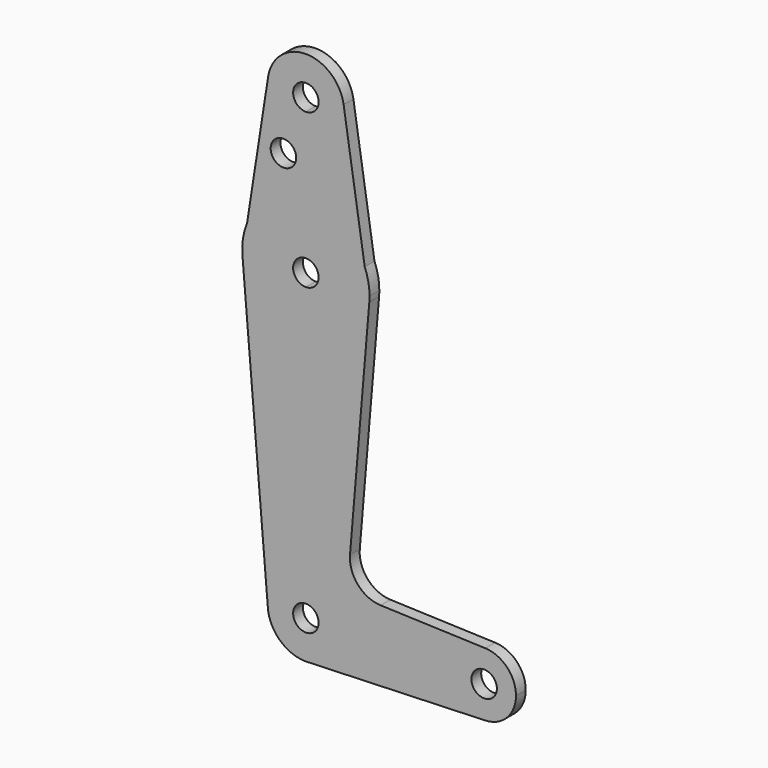
from build123d import *

# Parameters (mm, degrees)
F0_R     = 3.175
F1_DEPTH = 3.048
F2_DEPTH = 3.048


with BuildPart() as f1:
    # F0 (on Front) → F1 (new body)
    with BuildSketch(Plane.XZ):
        with BuildLine():
            ThreePointArc((-9.4122732274, 80.6980861432), (-7.233337969, 73.0398798407), (0, 69.712011986))
            ThreePointArc((0, 69.712011986), (6.7351920908, 72.5018198952), (9.525, 79.237011986))
            ThreePointArc((9.525, 79.237011986), (9.4967855323, 79.9696029722), (9.4123092802, 80.6978538714))
            ThreePointArc((9.4123092802, 80.6978538714), (0.0001175266, 88.7620119852), (-9.4122732274, 80.6980861432))
        make_face()
        with BuildLine():
            ThreePointArc((3.175, 79.237011986), (2.2450640303, 76.9919479557), (0, 76.062011986))
            ThreePointArc((0, 76.062011986), (-2.2450640303, 81.4820760162), (3.175, 79.237011986))
        make_face(mode=Mode.SUBTRACT)
        with BuildLine():
            ThreePointArc((9.525, 79.237011986), (6.7351920908, 72.5018198952), (0, 69.712011986))
            Line((0, 69.712011986), (0, 56.6330696046))
            ThreePointArc((0, 56.6330696046), (8.8226439202, 53.9556670852), (14.6693169351, 46.8265756529))
            Line((14.6693169351, 46.8265756529), (9.4123092802, 80.6978538714))
            ThreePointArc((9.4123092802, 80.6978538714), (9.4967855323, 79.9696029722), (9.525, 79.237011986))
        make_face()
        with BuildLine():
            Line((0, 56.6330696046), (0, 69.712011986))
            ThreePointArc((0, 69.712011986), (-7.233337969, 73.0398798407), (-9.4122732274, 80.6980861432))
            Line((-9.4122732274, 80.6980861432), (-14.6706873169, 46.8232619882))
            ThreePointArc((-14.6706873169, 46.8232619882), (-8.8241344026, 53.9546705702), (0, 56.6330696046))
        make_face()
        with Locations((-5.602484569, 65.1724487543)):
            Circle(F0_R, mode=Mode.SUBTRACT)
        with BuildLine():
            ThreePointArc((14.6693169351, 46.8265756529), (8.8226439202, 53.9556670852), (0, 56.6330696046))
            Line((0, 56.6330696046), (0, 43.9330696046))
            ThreePointArc((0, 43.9330696046), (2.2450640303, 43.0031336349), (3.175, 40.7580696046))
            ThreePointArc((3.175, 40.7580696046), (2.2450640303, 38.5130055744), (0, 37.5830696046))
            Line((0, 37.5830696046), (0, 24.8830696046))
            ThreePointArc((0, 24.8830696046), (10.7423681294, 29.0697355928), (15.8186314047, 39.4214599074))
            Line((15.8186314047, 39.4214599074), (14.6693169351, 46.8265756529))
        make_face()
        with BuildLine():
            Line((0, 43.9330696046), (0, 56.6330696046))
            ThreePointArc((0, 56.6330696046), (-8.8241344026, 53.9546705702), (-14.6706873169, 46.8232619882))
            Line((-14.6706873169, 46.8232619882), (-15.8189986877, 39.4258138036))
            ThreePointArc((-15.8189986877, 39.4258138036), (-10.7439765487, 29.0712140429), (0, 24.8830696046))
            Line((0, 24.8830696046), (0, 37.5830696046))
            ThreePointArc((0, 37.5830696046), (-3.175, 40.7580696046), (0, 43.9330696046))
        make_face()
        with BuildLine():
            ThreePointArc((15.875, 40.7580696046), (15.5706620178, 43.8516289345), (14.6693169351, 46.8265756529))
            Line((14.6693169351, 46.8265756529), (15.8186314047, 39.4214599074))
            ThreePointArc((15.8186314047, 39.4214599074), (15.8609015909, 40.0891707144), (15.875, 40.7580696046))
        make_face()
        with BuildLine():
            Line((-15.8189986877, 39.4258138036), (-14.6706873169, 46.8232619882))
            ThreePointArc((-14.6706873169, 46.8232619882), (-15.6871220457, 43.1931932), (-15.8189986877, 39.4258138036))
        make_face()
        with BuildLine():
            Line((11.0016428141, -17.5870797962), (15.8186314047, 39.4214599074))
            ThreePointArc((15.8186314047, 39.4214599074), (10.7423681294, 29.0697355928), (0, 24.8830696046))
            Line((0, 24.8830696046), (0, -25.537988014))
            ThreePointArc((0, -25.537988014), (6.7351920908, -28.3277959232), (9.525, -35.062988014))
            Line((9.525, -35.062988014), (36.5125, -35.062988014))
            ThreePointArc((36.5125, -35.062988014), (38.9380895153, -29.3513552301), (44.7324052746, -27.1305133995))
            Line((44.7324052746, -27.1305133995), (18.6407562986, -26.2016205066))
            ThreePointArc((18.6407562986, -26.2016205066), (12.9753046338, -23.5312337959), (11.0016428141, -17.5870797962))
        make_face()
        with BuildLine():
            ThreePointArc((0, 24.8830696046), (-10.7439765487, 29.0712140429), (-15.8189986877, 39.4258138036))
            Line((-15.8189986877, 39.4258138036), (-9.5202099751, -35.3650261402))
            ThreePointArc((-9.5202099751, -35.3650261402), (-6.8411453044, -28.4354427729), (0, -25.537988014))
            Line((0, -25.537988014), (0, 24.8830696046))
        make_face()
        with BuildLine():
            ThreePointArc((0, -25.537988014), (-6.8411453044, -28.4354427729), (-9.5202099751, -35.3650261402))
            ThreePointArc((-9.5202099751, -35.3650261402), (-6.6275452412, -41.9041333184), (0, -44.587988014))
            Line((0, -44.587988014), (0.6773435479, -44.5638738))
            ThreePointArc((0.6773435479, -44.5638738), (6.9705567315, -41.5542871023), (9.525, -35.062988014))
            Line((9.525, -35.062988014), (3.175, -35.062988014))
            ThreePointArc((3.175, -35.062988014), (-2.2450640303, -37.3080520443), (0, -31.887988014))
            Line((0, -31.887988014), (0, -25.537988014))
        make_face()
        with BuildLine():
            Line((0.6773435479, -44.5638738), (0, -44.587988014))
            ThreePointArc((0, -44.587988014), (0.3388863295, -44.5819575515), (0.6773435479, -44.5638738))
        make_face()
        with BuildLine():
            Line((36.5125, -35.062988014), (9.525, -35.062988014))
            ThreePointArc((9.525, -35.062988014), (6.9705567315, -41.5542871023), (0.6773435479, -44.5638738))
            Line((0.6773435479, -44.5638738), (44.7324052746, -42.9954626286))
            ThreePointArc((44.7324052746, -42.9954626286), (38.9380895153, -40.774620798), (36.5125, -35.062988014))
        make_face()
        with BuildLine():
            ThreePointArc((52.3875, -35.062988014), (50.1616327839, -29.5510775293), (44.7324052746, -27.1305133995))
            ThreePointArc((44.7324052746, -27.1305133995), (38.9380895153, -29.3513552301), (36.5125, -35.062988014))
            ThreePointArc((36.5125, -35.062988014), (38.9380895153, -40.774620798), (44.7324052746, -42.9954626286))
            ThreePointArc((44.7324052746, -42.9954626286), (50.1616327839, -40.5748984988), (52.3875, -35.062988014))
        make_face()
        with BuildLine():
            ThreePointArc((47.625, -35.062988014), (44.45, -38.237988014), (41.275, -35.062988014))
            ThreePointArc((41.275, -35.062988014), (44.45, -31.887988014), (47.625, -35.062988014))
        make_face(mode=Mode.SUBTRACT)
    extrude(amount=F1_DEPTH)

    # F0 (on Front) → F2 (join)
    with BuildSketch(Plane.XZ):
        with BuildLine():
            ThreePointArc((9.525, -35.062988014), (6.7351920908, -28.3277959232), (0, -25.537988014))
            Line((0, -25.537988014), (0, -31.887988014))
            ThreePointArc((0, -31.887988014), (2.2450640303, -32.8179239838), (3.175, -35.062988014))
            Line((3.175, -35.062988014), (9.525, -35.062988014))
        make_face()
    extrude(amount=F2_DEPTH)


solid = f1.part
